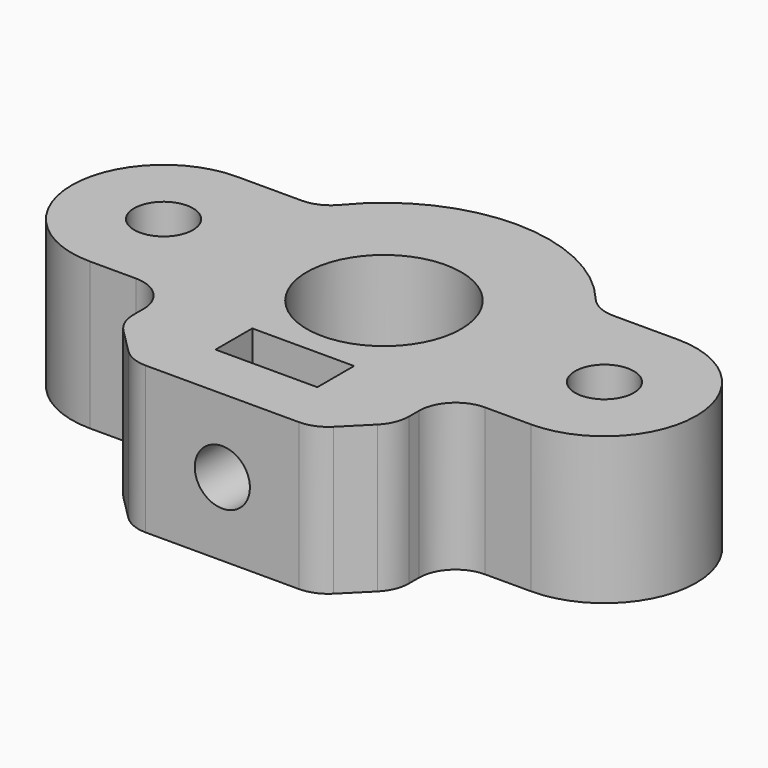
from build123d import *

# Parameters (mm, degrees)
CYLINDER001_R          = 1.5
CYLINDER001_DEPTH      = 15
CYLINDER001_ROLL_ANGLE = 90
PAD002_DEPTH           = 2.5
SKETCH001_R            = 1.6
SKETCH001_R_2          = 4.2
PAD001_DEPTH           = 8
CHAMFER001_SIZE        = 2.5
FILLET001_R            = 2


with BuildPart() as cylinder001:
    # Cylinder001 → Cylinder001 (new body)
    with BuildSketch(Plane.XY):
        Circle(CYLINDER001_R)
    extrude(amount=CYLINDER001_DEPTH)


with BuildPart() as cylinder001_1:
    # Cylinder001 roll: moved
    add(cylinder001.part.rotate(Axis((0, 0, 0), (1, 0, 0)), CYLINDER001_ROLL_ANGLE))


with BuildPart() as cylinder001_2:
    # Cylinder001 placement: moved
    add(cylinder001_1.part.moved(Location((0, 0, 4))))


with BuildPart() as fusion005:
    # Sketch002 → Pad002 (new body)
    with BuildSketch(Plane.XZ.offset(8)):
        Polygon((0, 0.8), (2.771281, 2.4), (2.771281, 5.6), (2.771281, 11.6), (-2.771281, 11.6), (-2.771281, 5.6), (-2.771281, 2.4), align=None)
    extrude(amount=-PAD002_DEPTH)

    # Fusion005: union Cylinder001
    add(cylinder001_2.part)


with BuildPart() as cut002:
    # Sketch001 → Pad001 (new body)
    with BuildSketch(Plane.XY):
        with BuildLine():
            ThreePointArc((-12.000024, 5), (-17, 0), (-12.000024, -5))
            Line((-7.5, -5), (-12.000024, -5))
            Line((-7.5, -11), (-7.5, -5))
            Line((7.5, -11), (-7.5, -11))
            Line((7.5, -5), (7.5, -11))
            Line((12.000024, -5), (7.5, -5))
            ThreePointArc((12.000024, -5), (17, 0), (12.000024, 5))
            Line((7.483315, 5), (12.000024, 5))
            ThreePointArc((7.483315, 5), (0, 9), (-7.483315, 5))
            Line((-12.000024, 5), (-7.483315, 5))
        make_face()
        with Locations((-12, 0)):
            Circle(SKETCH001_R, mode=Mode.SUBTRACT)
        Circle(SKETCH001_R_2, mode=Mode.SUBTRACT)
        with Locations((12, 0)):
            Circle(SKETCH001_R, mode=Mode.SUBTRACT)
    extrude(amount=PAD001_DEPTH)

    # Chamfer001
    chamfer001_edges = [cut002.edges().sort_by_distance(p)[0] for p in [
        (-7.5, -11, 4),
        (7.5, -11, 4),
    ]]
    chamfer(chamfer001_edges, length=CHAMFER001_SIZE)

    # Fillet001
    fillet001_edges = [cut002.edges().sort_by_distance(p)[0] for p in [
        (-7.5, -8.5, 4),
        (-7.5, -5, 4),
        (-5, -11, 4),
        (5, -11, 4),
        (7.5, -8.5, 4),
        (-7.483315, 5, 4),
        (7.5, -5, 4),
        (7.483315, 5, 4),
    ]]
    fillet(fillet001_edges, radius=FILLET001_R)

    # Cut002: cut Fusion005
    add(fusion005.part, mode=Mode.SUBTRACT)


solid = cut002.part
